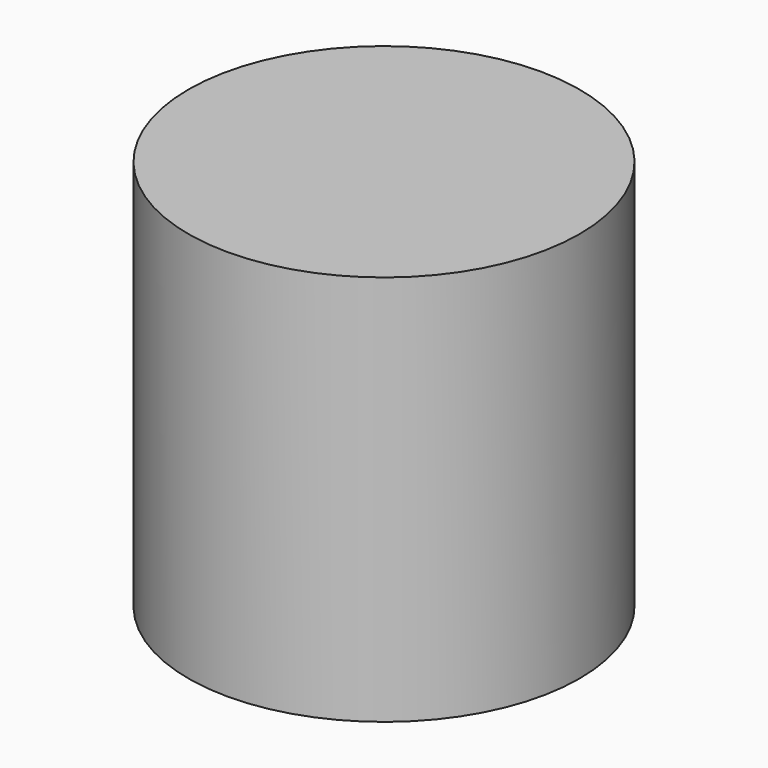
from build123d import *

# Parameters (mm, degrees)
F0_R      = 37.5
F0_R_2    = 22.610038
F1_DEPTH  = 25
F1_FACE_R = 37.5
F2_DEPTH  = 50


with BuildPart() as f1:
    # F0 (on Top) → F1 (new body)
    with BuildSketch(Plane.XY):
        Circle(F0_R)
        Circle(F0_R_2, mode=Mode.SUBTRACT)
        Circle(F0_R_2)
    extrude(amount=F1_DEPTH)

    # F1_face (on face) → F2 (join)
    with BuildSketch(Plane.XY.offset(25)):
        Circle(F1_FACE_R)
    extrude(amount=F2_DEPTH)


solid = f1.part
